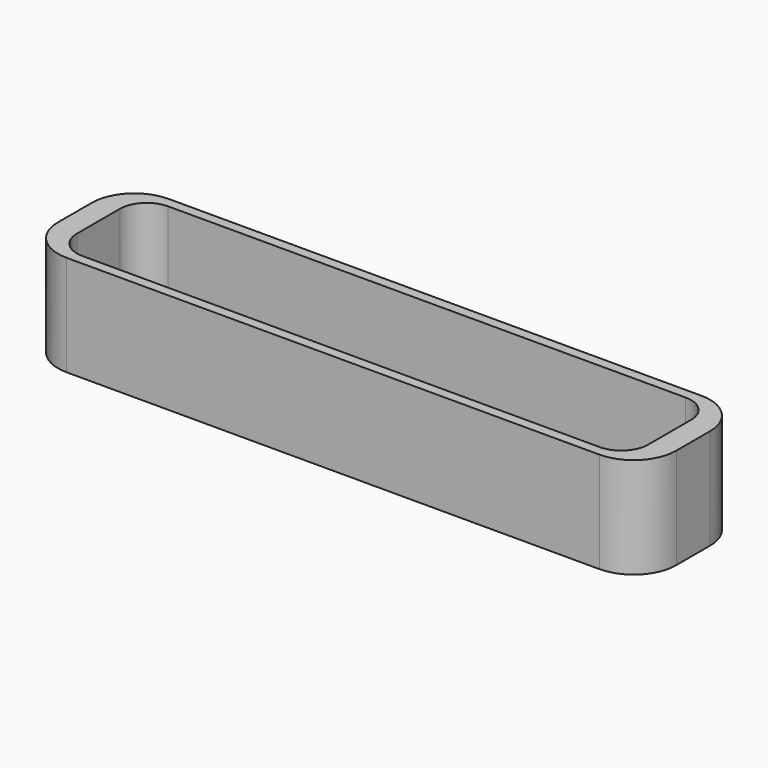
from build123d import *

# Parameters (mm, degrees)
SKETCH001_W   = 92
SKETCH001_H   = 18.98
SKETCH001_W_2 = 85
SKETCH001_H_2 = 15.98
PAD001_DEPTH  = 15
FILLET001_R   = 4
FILLET002_R   = 6.35
SKETCH080_W   = 7
SKETCH080_H   = 1.5
PAD002_DEPTH  = 6
SKETCH081_W   = 7
SKETCH081_H   = 1.5
PAD003_DEPTH  = 6
SKETCH082_R   = 1.5
POCKET_DEPTH  = 5


with BuildPart() as part:
    # Sketch001 → Pad001 (new body)
    with BuildSketch(Plane.XY):
        with Locations((47, -48.990001)):
            Rectangle(SKETCH001_W, SKETCH001_H)
        with Locations((47, -48.990001)):
            Rectangle(SKETCH001_W_2, SKETCH001_H_2, mode=Mode.SUBTRACT)
    extrude(amount=PAD001_DEPTH)

    # Fillet001
    fillet001_edges = [part.edges().sort_by_distance(p)[0] for p in [
        (4.5, -41.000001, 7.5),
        (89.5, -41.000001, 7.5),
        (89.5, -56.980001, 7.5),
        (4.5, -56.980001, 7.5),
    ]]
    fillet(fillet001_edges, radius=FILLET001_R)

    # Fillet002
    fillet002_edges = [part.edges().sort_by_distance(p)[0] for p in [
        (1, -39.500001, 7.5),
        (1, -58.480001, 7.5),
        (93, -39.500001, 7.5),
        (93, -58.480001, 7.5),
    ]]
    fillet(fillet002_edges, radius=FILLET002_R)

    # Sketch080 (on Face13 of Fillet002) → Pad002 (join)
    with BuildSketch(Plane(origin=(89.5, 0, 0), x_dir=(0, -1, 0), z_dir=(-1, 0, 0))):
        with Locations((49.039999, 2.35)):
            Rectangle(SKETCH080_W, SKETCH080_H)
    extrude(amount=PAD002_DEPTH)

    # Sketch081 (on Face14 of Pad002) → Pad003 (join)
    with BuildSketch(Plane.YZ.offset(4.5)):
        with Locations((-49.039999, 2.35)):
            Rectangle(SKETCH081_W, SKETCH081_H)
    extrude(amount=PAD003_DEPTH)

    # Sketch082 (on Face1 of Pad003) → Pocket (cut)
    with BuildSketch(Plane(origin=(0, 0, 0), x_dir=(1, 0, 0), z_dir=(0, 0, -1))):
        with Locations((7.84, 49.039999)):
            Circle(SKETCH082_R)
        with Locations((86.180001, 49.039999)):
            Circle(SKETCH082_R)
    extrude(amount=-POCKET_DEPTH, mode=Mode.SUBTRACT)


solid = part.part
